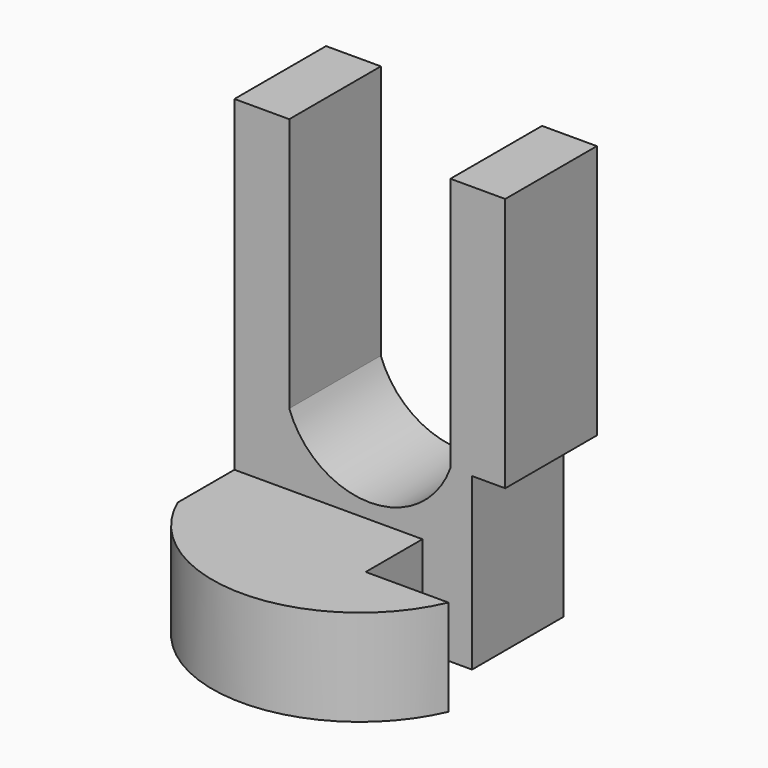
from build123d import *

# Parameters (mm, degrees)
F1_DEPTH = 25.4
F0_W     = 60.0766055286
F0_H     = 21.8948144466
F2_DEPTH = 41.148
F4_DEPTH = 21.336
F6_DEPTH = 7.366
F8_DEPTH = 21.8958144466


with BuildPart() as f1:
    # F0 (on Front) → F1 (new body)
    with BuildSketch(Plane.XZ):
        with BuildLine():
            Line((-47.9169413447, 56.5039552748), (-60.0766055286, 56.5039552748))
            Line((-60.0766055286, 56.5039552748), (-60.0766055286, -15.9127693623))
            Line((-60.0766055286, -15.9127693623), (0, -15.9127693623))
            Line((0, -15.9127693623), (0, 56.5039552748))
            Line((0, 56.5039552748), (-12.1596641839, 56.5039552748))
            Line((-12.1596641839, 56.5039552748), (-12.1596641839, 0))
            ThreePointArc((-12.1596641839, 0), (-30.0383027643, -12.5509662024), (-47.9169413447, 0))
            Line((-47.9169413447, 0), (-47.9169413447, 56.5039552748))
        make_face()
    extrude(amount=F1_DEPTH)

    # F0 (on Front) → F2 (join)
    with BuildSketch(Plane.XZ):
        with Locations((-30.0383027643, -26.8601765856)):
            Rectangle(F0_W, F0_H)
    extrude(amount=F2_DEPTH)

    # F3 (on face) → F4 (join)
    with BuildSketch(Plane.XY.offset(-15.9127693623)):
        with BuildLine():
            Line((0, -41.148), (-60.0766055286, -41.148))
            ThreePointArc((-60.0766055286, -41.148), (-30.0383027643, -60.8627597927), (0, -41.148))
        make_face()
    extrude(amount=-F4_DEPTH)

    # F5 (on face) → F6 (cut)
    with BuildSketch(Plane.YZ):
        Polygon((0, 0), (-25.4, 0), (-25.4, -15.9127693623), (-25.4, -37.8075838089), (0, -37.8075838089), align=None)
    extrude(amount=-F6_DEPTH, mode=Mode.SUBTRACT)

    # F7 (on face) → F8 (cut, through all)
    with BuildSketch(Plane.XY.offset(-15.9127693623)):
        Polygon((-7.366, -25.4), (-18.3683019131, -25.4), (-18.3683019131, -41.148), (0, -41.148), (0, -25.4), align=None)
    extrude(amount=-F8_DEPTH, mode=Mode.SUBTRACT)


solid = f1.part
